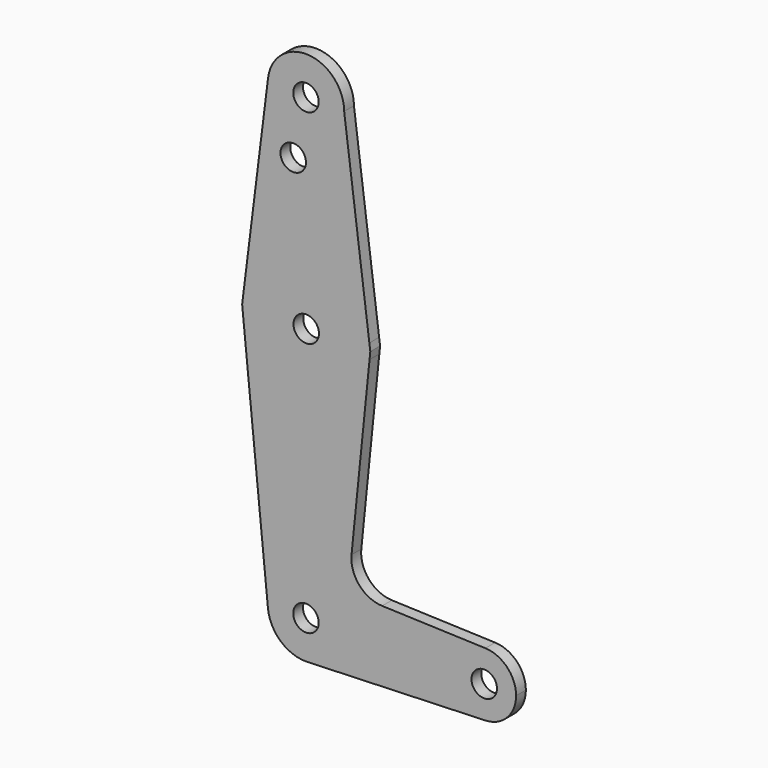
from build123d import *

# Parameters (mm, degrees)
F0_R     = 3.175
F1_DEPTH = 3.048


with BuildPart() as f1:
    # F0 (on Front) → F1 (new body)
    with BuildSketch(Plane.XZ):
        with BuildLine():
            ThreePointArc((0.6773435479, -9.500885786), (6.9705567315, -6.4912990883), (9.525, 0))
            ThreePointArc((9.525, 0), (-0.4724079467, 9.5132778647), (-9.4781403112, -0.9436531364))
            ThreePointArc((-9.4781403112, -0.9436531364), (-6.3928604269, -7.0609461521), (0, -9.525))
            Line((0, -9.525), (0.6773435479, -9.500885786))
        make_face()
        Circle(F0_R, mode=Mode.SUBTRACT)
        with BuildLine():
            ThreePointArc((-9.4781403112, -0.9436531364), (-0.4724079467, 9.5132778647), (9.525, 0))
            ThreePointArc((9.525, 0), (6.9705567315, -6.4912990883), (0.6773435479, -9.500885786))
            Line((0.6773435479, -9.500885786), (44.7324052746, -7.9324746146))
            ThreePointArc((44.7324052746, -7.9324746146), (36.5125, 0), (44.7324052746, 7.9324746146))
            Line((44.7324052746, 7.9324746146), (18.9857556238, 8.8490851323))
            ThreePointArc((18.9857556238, 8.8490851323), (13.2761928829, 11.5696383986), (11.3590091036, 17.5966545031))
            Line((11.3590091036, 17.5966545031), (15.8532076744, 61.897758048))
            ThreePointArc((15.8532076744, 61.897758048), (0.0444528714, 47.6250069155), (-15.7376298713, 61.9272451185))
            Line((-15.7376298713, 61.9272451185), (-9.4781403112, -0.9436531364))
        make_face()
        with BuildLine():
            ThreePointArc((0, -9.525), (0.3388863295, -9.5189695375), (0.6773435479, -9.500885786))
            Line((0.6773435479, -9.500885786), (0, -9.525))
        make_face()
        with BuildLine():
            Line((-15.9140368977, 63.6990937811), (-15.7376298713, 61.9272451185))
            ThreePointArc((-15.7376298713, 61.9272451185), (-15.8144963294, 63.6978531699), (-15.6935223232, 65.4659953062))
            Line((-15.6935223232, 65.4659953062), (-15.9140368977, 63.6990937811))
        make_face()
        with BuildLine():
            ThreePointArc((-15.6935223232, 65.4659953062), (-15.8144963294, 63.6978531699), (-15.7376298713, 61.9272451185))
            ThreePointArc((-15.7376298713, 61.9272451185), (0.0444528714, 47.6250069155), (15.8532076744, 61.897758048))
            ThreePointArc((15.8532076744, 61.897758048), (15.9139919779, 62.6978543643), (15.9342706817, 63.5))
            ThreePointArc((15.9342706817, 63.5), (15.9017486372, 64.5156363671), (15.8043157551, 65.5271114024))
            ThreePointArc((15.8043157551, 65.5271114024), (0.0284680533, 79.3749701164), (-15.6935223232, 65.4659953062))
        make_face()
        with Locations((0.0592706817, 63.5)):
            Circle(F0_R, mode=Mode.SUBTRACT)
        with BuildLine():
            ThreePointArc((44.7324052746, 7.9324746146), (36.5125, 0), (44.7324052746, -7.9324746146))
            ThreePointArc((44.7324052746, -7.9324746146), (50.1616327839, -5.5119104847), (52.3875, 0))
            ThreePointArc((52.3875, 0), (50.1616327839, 5.5119104847), (44.7324052746, 7.9324746146))
        make_face()
        with Locations((44.45, 0)):
            Circle(F0_R, mode=Mode.SUBTRACT)
        with BuildLine():
            Line((-9.4516757887, 115.4795972979), (-15.6935223232, 65.4659953062))
            ThreePointArc((-15.6935223232, 65.4659953062), (0.0284680533, 79.3749701164), (15.8043157551, 65.5271114024))
            Line((15.8043157551, 65.5271114024), (9.525, 114.3))
            ThreePointArc((9.525, 114.3), (-0.5909370155, 104.7933487261), (-9.4516757887, 115.4795972979))
        make_face()
        with Locations((-3.175, 100.0252)):
            Circle(F0_R, mode=Mode.SUBTRACT)
        with BuildLine():
            ThreePointArc((15.9342706817, 63.5), (15.9139919779, 62.6978543643), (15.8532076744, 61.897758048))
            Line((15.8532076744, 61.897758048), (16.0375859564, 63.715248138))
            Line((16.0375859564, 63.715248138), (15.8043157551, 65.5271114024))
            ThreePointArc((15.8043157551, 65.5271114024), (15.9017486372, 64.5156363671), (15.9342706817, 63.5))
        make_face()
        with BuildLine():
            ThreePointArc((9.525, 114.3), (0.5909370155, 123.8066512739), (-9.4516757887, 115.4795972979))
            ThreePointArc((-9.4516757887, 115.4795972979), (-0.5909370155, 104.7933487261), (9.525, 114.3))
        make_face()
        with Locations((0, 114.3)):
            Circle(F0_R, mode=Mode.SUBTRACT)
    extrude(amount=F1_DEPTH)


solid = f1.part
